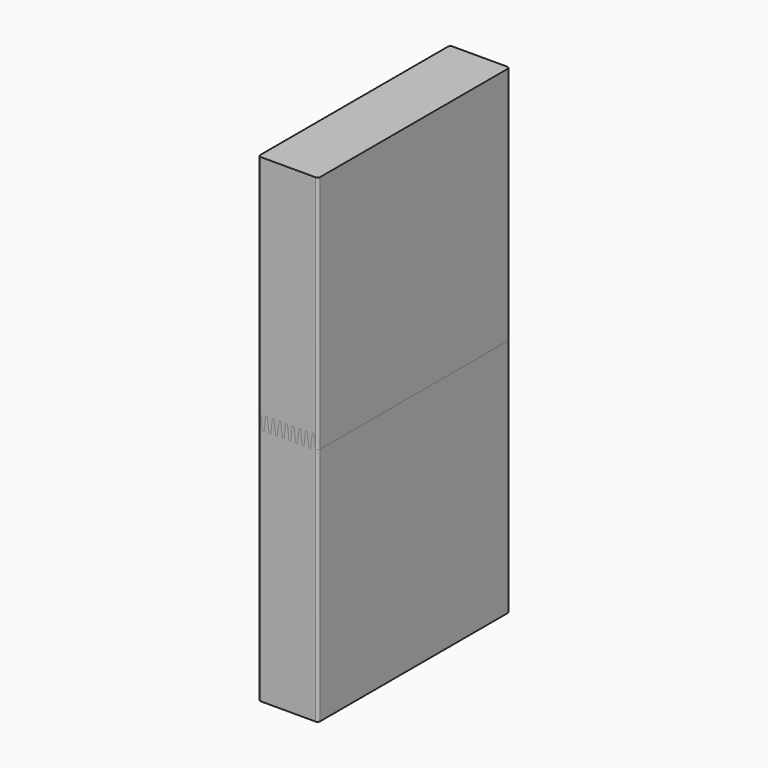
from build123d import *

# Parameters (mm, degrees)
F1_DEPTH = 152.4
F2_DEPTH = 152.4
F3_R     = 1.5875
F3_2_R   = 1.5875


with BuildPart() as f1:
    # F0 (on Front) → F1 (new body)
    with BuildSketch(Plane.XZ):
        with BuildLine():
            Line((0, 198.8398526046), (-38.1, 198.8398526046))
            Line((-38.1, 198.8398526046), (-38.1, 54.4437281787))
            Line((-38.1, 54.4437281787), (-36.3728, 54.4437281787))
            Line((-36.3728, 54.4437281787), (-35.5245824247, 46.3734770304))
            ThreePointArc((-35.5245824247, 46.3734770304), (-34.8930610211, 45.8048526046), (-34.2615396175, 46.3734770304))
            Line((-34.2615396175, 46.3734770304), (-33.4133220422, 54.4437281787))
            ThreePointArc((-33.4133220422, 54.4437281787), (-32.7818006386, 55.0123526046), (-32.1502792351, 54.4437281787))
            Line((-32.1502792351, 54.4437281787), (-31.3020616597, 46.3734770304))
            ThreePointArc((-31.3020616597, 46.3734770304), (-30.6705402562, 45.8048526046), (-30.0390188526, 46.3734770304))
            Line((-30.0390188526, 46.3734770304), (-29.1908012772, 54.4437281787))
            ThreePointArc((-29.1908012772, 54.4437281787), (-28.5592798737, 55.0123526046), (-27.9277584701, 54.4437281787))
            Line((-27.9277584701, 54.4437281787), (-27.0795408948, 46.3734770304))
            ThreePointArc((-27.0795408948, 46.3734770304), (-26.4480194912, 45.8048526046), (-25.8164980877, 46.3734770304))
            Line((-25.8164980877, 46.3734770304), (-24.9613041584, 54.5101037529))
            ThreePointArc((-24.9613041584, 54.5101037529), (-24.3297827548, 55.0787281787), (-23.6982613512, 54.5101037529))
            Line((-23.6982613512, 54.5101037529), (-22.8430674219, 46.3734770304))
            ThreePointArc((-22.8430674219, 46.3734770304), (-22.2115460184, 45.8048526046), (-21.5800246148, 46.3734770304))
            Line((-21.5800246148, 46.3734770304), (-20.7248306855, 54.5101037529))
            ThreePointArc((-20.7248306855, 54.5101037529), (-20.0933092819, 55.0787281787), (-19.4617878784, 54.5101037529))
            Line((-19.4617878784, 54.5101037529), (-18.6065939491, 46.3734770304))
            ThreePointArc((-18.6065939491, 46.3734770304), (-17.9750725455, 45.8048526046), (-17.3435511419, 46.3734770304))
            Line((-17.3435511419, 46.3734770304), (-16.4953335666, 54.4437281787))
            ThreePointArc((-16.4953335666, 54.4437281787), (-15.863812163, 55.0123526046), (-15.2322907595, 54.4437281787))
            Line((-15.2322907595, 54.4437281787), (-14.3840731841, 46.3734770304))
            ThreePointArc((-14.3840731841, 46.3734770304), (-13.7525517806, 45.8048526046), (-13.121030377, 46.3734770304))
            Line((-13.121030377, 46.3734770304), (-12.2728128017, 54.4437281787))
            ThreePointArc((-12.2728128017, 54.4437281787), (-11.6412913981, 55.0123526046), (-11.0097699945, 54.4437281787))
            Line((-11.0097699945, 54.4437281787), (-10.1615524192, 46.3734770304))
            ThreePointArc((-10.1615524192, 46.3734770304), (-9.5300310156, 45.8048526046), (-8.8985096121, 46.3734770304))
            Line((-8.8985096121, 46.3734770304), (-8.0502920367, 54.4437281787))
            ThreePointArc((-8.0502920367, 54.4437281787), (-7.4187706332, 55.0123526046), (-6.7872492296, 54.4437281787))
            Line((-6.7872492296, 54.4437281787), (-5.9390316543, 46.3734770304))
            ThreePointArc((-5.9390316543, 46.3734770304), (-5.3075102507, 45.8048526046), (-4.6759888471, 46.3734770304))
            Line((-4.6759888471, 46.3734770304), (-3.8277712718, 54.4437281787))
            ThreePointArc((-3.8277712718, 54.4437281787), (-3.1962498682, 55.0123526046), (-2.5647284647, 54.4437281787))
            Line((-2.5647284647, 54.4437281787), (-1.7234872433, 46.4398526046))
            Line((-1.7234872433, 46.4398526046), (0, 46.4398526046))
            Line((0, 46.4398526046), (0, 198.8398526046))
        make_face()
    extrude(amount=-F1_DEPTH)

    # F3
    f3_edges = [f1.edges().sort_by_distance(p)[0] for p in [
        (-38.1, 0, 126.64179),
        (0, 0, 122.639853),
        (0, 152.4, 122.639853),
        (-38.1, 152.4, 126.64179),
    ]]
    fillet(f3_edges, radius=F3_R)


with BuildPart() as f2:
    # F0 (on Front) → F2 (new body)
    with BuildSketch(Plane.XZ):
        with BuildLine():
            Line((-36.3728, 54.4437281787), (-38.1, 54.4437281787))
            Line((-38.1, 54.4437281787), (-38.1, -105.9601473954))
            Line((-38.1, -105.9601473954), (0, -105.9601473954))
            Line((0, -105.9601473954), (0, 46.4398526046))
            Line((0, 46.4398526046), (-1.7234872433, 46.4398526046))
            Line((-1.7234872433, 46.4398526046), (-2.5647284647, 54.4437281787))
            ThreePointArc((-2.5647284647, 54.4437281787), (-3.1962498682, 55.0123526046), (-3.8277712718, 54.4437281787))
            Line((-3.8277712718, 54.4437281787), (-4.6759888471, 46.3734770304))
            ThreePointArc((-4.6759888471, 46.3734770304), (-5.3075102507, 45.8048526046), (-5.9390316543, 46.3734770304))
            Line((-5.9390316543, 46.3734770304), (-6.7872492296, 54.4437281787))
            ThreePointArc((-6.7872492296, 54.4437281787), (-7.4187706332, 55.0123526046), (-8.0502920367, 54.4437281787))
            Line((-8.0502920367, 54.4437281787), (-8.8985096121, 46.3734770304))
            ThreePointArc((-8.8985096121, 46.3734770304), (-9.5300310156, 45.8048526046), (-10.1615524192, 46.3734770304))
            Line((-10.1615524192, 46.3734770304), (-11.0097699945, 54.4437281787))
            ThreePointArc((-11.0097699945, 54.4437281787), (-11.6412913981, 55.0123526046), (-12.2728128017, 54.4437281787))
            Line((-12.2728128017, 54.4437281787), (-13.121030377, 46.3734770304))
            ThreePointArc((-13.121030377, 46.3734770304), (-13.7525517806, 45.8048526046), (-14.3840731841, 46.3734770304))
            Line((-14.3840731841, 46.3734770304), (-15.2322907595, 54.4437281787))
            ThreePointArc((-15.2322907595, 54.4437281787), (-15.863812163, 55.0123526046), (-16.4953335666, 54.4437281787))
            Line((-16.4953335666, 54.4437281787), (-17.3435511419, 46.3734770304))
            ThreePointArc((-17.3435511419, 46.3734770304), (-17.9750725455, 45.8048526046), (-18.6065939491, 46.3734770304))
            Line((-18.6065939491, 46.3734770304), (-19.4617878784, 54.5101037529))
            ThreePointArc((-19.4617878784, 54.5101037529), (-20.0933092819, 55.0787281787), (-20.7248306855, 54.5101037529))
            Line((-20.7248306855, 54.5101037529), (-21.5800246148, 46.3734770304))
            ThreePointArc((-21.5800246148, 46.3734770304), (-22.2115460184, 45.8048526046), (-22.8430674219, 46.3734770304))
            Line((-22.8430674219, 46.3734770304), (-23.6982613512, 54.5101037529))
            ThreePointArc((-23.6982613512, 54.5101037529), (-24.3297827548, 55.0787281787), (-24.9613041584, 54.5101037529))
            Line((-24.9613041584, 54.5101037529), (-25.8164980877, 46.3734770304))
            ThreePointArc((-25.8164980877, 46.3734770304), (-26.4480194912, 45.8048526046), (-27.0795408948, 46.3734770304))
            Line((-27.0795408948, 46.3734770304), (-27.9277584701, 54.4437281787))
            ThreePointArc((-27.9277584701, 54.4437281787), (-28.5592798737, 55.0123526046), (-29.1908012772, 54.4437281787))
            Line((-29.1908012772, 54.4437281787), (-30.0390188526, 46.3734770304))
            ThreePointArc((-30.0390188526, 46.3734770304), (-30.6705402562, 45.8048526046), (-31.3020616597, 46.3734770304))
            Line((-31.3020616597, 46.3734770304), (-32.1502792351, 54.4437281787))
            ThreePointArc((-32.1502792351, 54.4437281787), (-32.7818006386, 55.0123526046), (-33.4133220422, 54.4437281787))
            Line((-33.4133220422, 54.4437281787), (-34.2615396175, 46.3734770304))
            ThreePointArc((-34.2615396175, 46.3734770304), (-34.8930610211, 45.8048526046), (-35.5245824247, 46.3734770304))
            Line((-35.5245824247, 46.3734770304), (-36.3728, 54.4437281787))
        make_face()
    extrude(amount=-F2_DEPTH)

    # F3#2
    f3_2_edges = [f2.edges().sort_by_distance(p)[0] for p in [
        (-38.1, 0, -25.75821),
        (0, 0, -29.760147),
        (0, 152.4, -29.760147),
        (-38.1, 152.4, -25.75821),
    ]]
    fillet(f3_2_edges, radius=F3_2_R)


solid = Compound([f1.part, f2.part])
